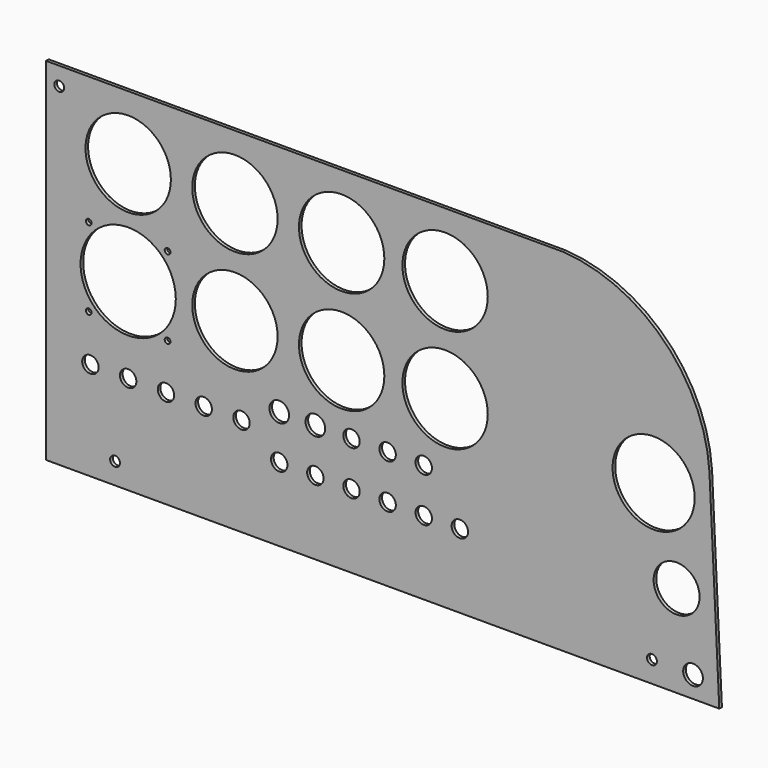
from build123d import *

# Parameters (mm, degrees)
F0_R     = 3
F0_R_2   = 5
F0_R_3   = 1.75
F0_R_4   = 6
F0_R_5   = 14
F0_R_6   = 29
F0_R_7   = 26
F0_R_8   = 25
F1_DEPTH = 2


with BuildPart() as f1:
    # F0 (on Front) → F1 (new body)
    with BuildSketch(Plane.XZ):
        with BuildLine():
            Line((0, 214), (0, 0))
            Line((0, 0), (410, 0))
            Line((410, 0), (404, 125))
            ThreePointArc((404, 125), (376.308989, 186.308989), (315, 214))
            Line((315, 214), (0, 214))
        make_face()
        with Locations((42, 13)):
            Circle(F0_R, mode=Mode.SUBTRACT)
        with Locations((142, 45)):
            Circle(F0_R_2, mode=Mode.SUBTRACT)
        with Locations((164, 45)):
            Circle(F0_R_2, mode=Mode.SUBTRACT)
        with Locations((186, 45)):
            Circle(F0_R_2, mode=Mode.SUBTRACT)
        with Locations((27, 60)):
            Circle(F0_R_2, mode=Mode.SUBTRACT)
        with Locations((50, 60)):
            Circle(F0_R_2, mode=Mode.SUBTRACT)
        with Locations((73, 60)):
            Circle(F0_R_2, mode=Mode.SUBTRACT)
        with Locations((96, 60)):
            Circle(F0_R_2, mode=Mode.SUBTRACT)
        with Locations((26, 88)):
            Circle(F0_R_3, mode=Mode.SUBTRACT)
        with Locations((74, 88)):
            Circle(F0_R_3, mode=Mode.SUBTRACT)
        with Locations((119, 60)):
            Circle(F0_R_2, mode=Mode.SUBTRACT)
        with Locations((142, 72)):
            Circle(F0_R_4, mode=Mode.SUBTRACT)
        with Locations((164, 72)):
            Circle(F0_R_4, mode=Mode.SUBTRACT)
        with Locations((186, 72)):
            Circle(F0_R_2, mode=Mode.SUBTRACT)
        with Locations((208, 45)):
            Circle(F0_R_2, mode=Mode.SUBTRACT)
        with Locations((230, 45)):
            Circle(F0_R_2, mode=Mode.SUBTRACT)
        with Locations((252, 45)):
            Circle(F0_R_2, mode=Mode.SUBTRACT)
        with Locations((369, 13)):
            Circle(F0_R, mode=Mode.SUBTRACT)
        with Locations((394, 13)):
            Circle(F0_R_4, mode=Mode.SUBTRACT)
        with Locations((208, 72)):
            Circle(F0_R_2, mode=Mode.SUBTRACT)
        with Locations((230, 72)):
            Circle(F0_R_2, mode=Mode.SUBTRACT)
        with Locations((384, 56)):
            Circle(F0_R_5, mode=Mode.SUBTRACT)
        with Locations((50, 112)):
            Circle(F0_R_6, mode=Mode.SUBTRACT)
        with Locations((26, 136)):
            Circle(F0_R_3, mode=Mode.SUBTRACT)
        with Locations((74, 136)):
            Circle(F0_R_3, mode=Mode.SUBTRACT)
        with Locations((115, 112)):
            Circle(F0_R_7, mode=Mode.SUBTRACT)
        with Locations((180, 112)):
            Circle(F0_R_7, mode=Mode.SUBTRACT)
        with Locations((50, 175)):
            Circle(F0_R_7, mode=Mode.SUBTRACT)
        with Locations((8, 203)):
            Circle(F0_R, mode=Mode.SUBTRACT)
        with Locations((115, 175)):
            Circle(F0_R_7, mode=Mode.SUBTRACT)
        with Locations((180, 175)):
            Circle(F0_R_7, mode=Mode.SUBTRACT)
        with Locations((243, 112)):
            Circle(F0_R_7, mode=Mode.SUBTRACT)
        with Locations((370, 108)):
            Circle(F0_R_8, mode=Mode.SUBTRACT)
        with Locations((243, 175)):
            Circle(F0_R_7, mode=Mode.SUBTRACT)
    extrude(amount=F1_DEPTH)


solid = f1.part
